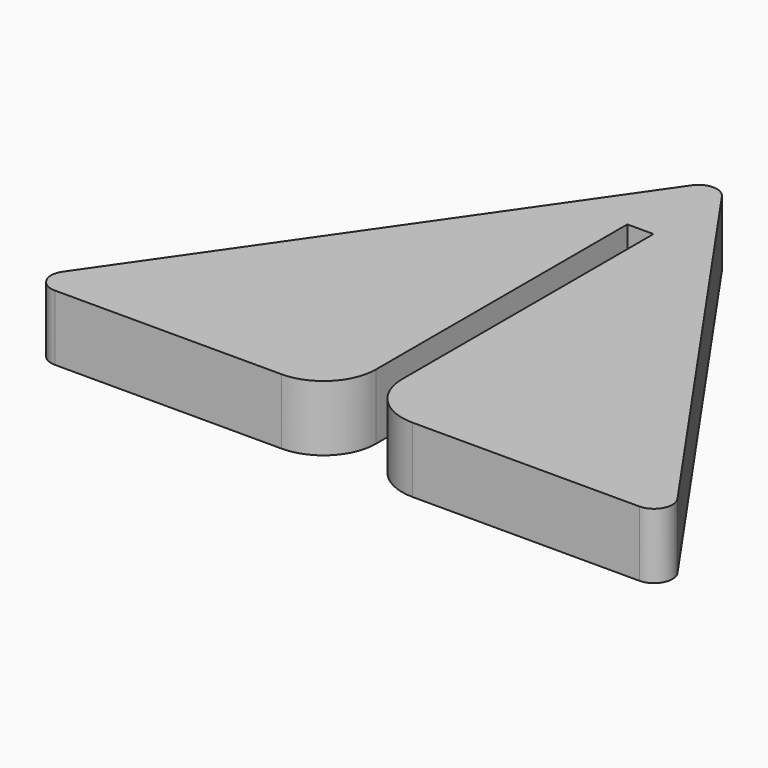
from build123d import *

# Parameters (mm, degrees)
F1_DEPTH = 6.35
F2_R     = 5.08
F3_R     = 1.778


with BuildPart() as f1:
    # F0 (on Top) → F1 (new body)
    with BuildSketch(Plane.XY):
        Polygon((31.75, 0), (0, 45.72), (-31.75, 0), (-1.27, 0), (-1.27, 35.56), (1.27, 35.56), (1.27, 0), align=None)
    extrude(amount=F1_DEPTH)

    # F2
    f2_edges = [f1.edges().sort_by_distance(p)[0] for p in [
        (-1.27, 0, 3.175),
        (1.27, 0, 3.175),
    ]]
    fillet(f2_edges, radius=F2_R)

    # F3
    f3_edges = [f1.edges().sort_by_distance(p)[0] for p in [
        (0, 45.72, 3.175),
        (31.75, 0, 3.175),
        (-31.75, 0, 3.175),
    ]]
    fillet(f3_edges, radius=F3_R)


solid = f1.part
